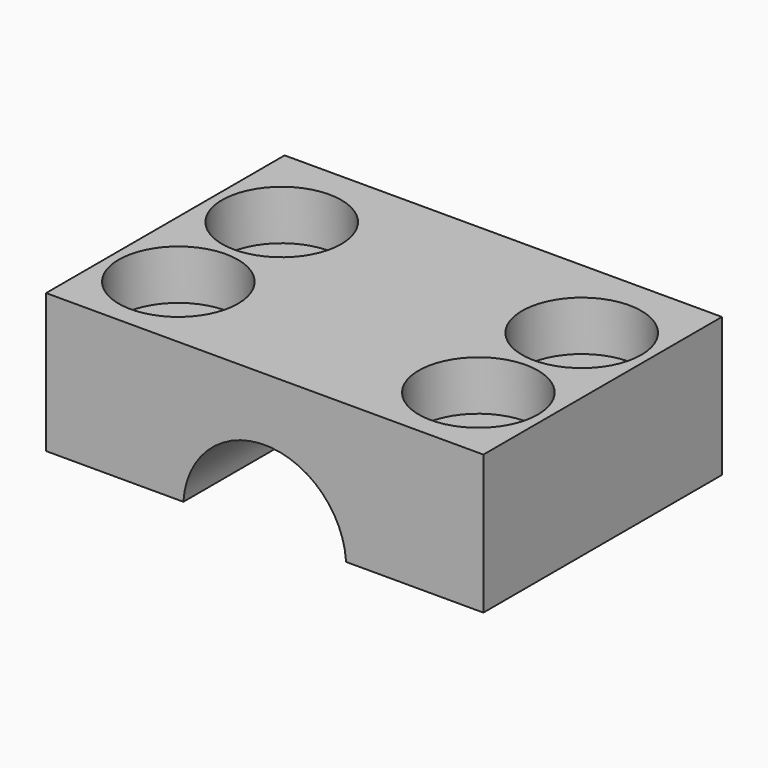
from build123d import *

# Parameters (mm, degrees)
PAD008_DEPTH    = 15
SKETCH018_R     = 1.75
POCKET008_DEPTH = 7.001
SKETCH019_R     = 3
POCKET009_DEPTH = 2.5


with BuildPart() as part:
    # Sketch017 (on Face1 of ReferencePocket007) → Pad008 (new body)
    with BuildSketch(Plane(origin=(0, -9.8, 0), x_dir=(-1, 0, 0), z_dir=(0, 1, 0))):
        with BuildLine():
            ThreePointArc((15.0923709509, 0.25), (11, 4.1), (6.9076290491, 0.25))
            Line((6.9076290491, 0.25), (0, 0.25))
            Line((0, 0.25), (0, 7.25))
            Line((0, 7.25), (22, 7.25))
            Line((22, 7.25), (22, 0.25))
            Line((15.0923709509, 0.25), (22, 0.25))
        make_face()
    extrude(amount=-PAD008_DEPTH)

    # Sketch018 (on Face6 of Pad008) → Pocket008 (cut, through all)
    with BuildSketch(Plane(origin=(0, 0, 0.25), x_dir=(1, 0, 0), z_dir=(0, 0, -1))):
        with Locations((-18.5461854755, 14.3)):
            Circle(SKETCH018_R)
        with Locations((-18.5461854755, 20.8)):
            Circle(SKETCH018_R)
        with Locations((-3.4538145245, 20.8)):
            Circle(SKETCH018_R)
        with Locations((-3.4538145245, 14.3)):
            Circle(SKETCH018_R)
    extrude(amount=-POCKET008_DEPTH, mode=Mode.SUBTRACT)

    # Sketch019 (on Face12 of Pocket008) → Pocket009 (cut)
    with BuildSketch(Plane.XY.offset(7.25)):
        with Locations((-18.5461854755, -14.3)):
            Circle(SKETCH019_R)
        with Locations((-18.5461854755, -20.8)):
            Circle(SKETCH019_R)
        with Locations((-3.4538145245, -20.8)):
            Circle(SKETCH019_R)
        with Locations((-3.4538145245, -14.3)):
            Circle(SKETCH019_R)
    extrude(amount=-POCKET009_DEPTH, mode=Mode.SUBTRACT)


solid = part.part
